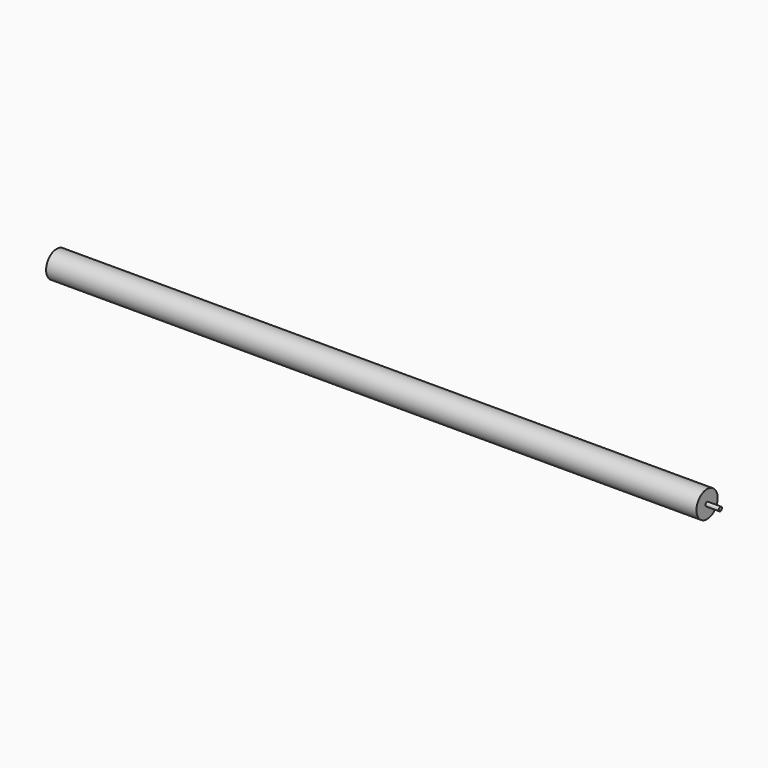
from build123d import *

# Parameters (mm, degrees)
F0_W = 1
F0_H = 0.15


with BuildPart() as f1:
    # F0 (on Front) → F1 (revolve)
    with BuildSketch(Plane.XZ):
        Polygon((24.5, -0.15), (24.5, 0), (-24.5, 0), (-24.5, -1), (24.5, -1), align=None)
        with Locations((25, -0.075)):
            Rectangle(F0_W, F0_H)
    revolve(axis=Axis((4.088743, 0, 0), (1, 0, 0)))


solid = f1.part
